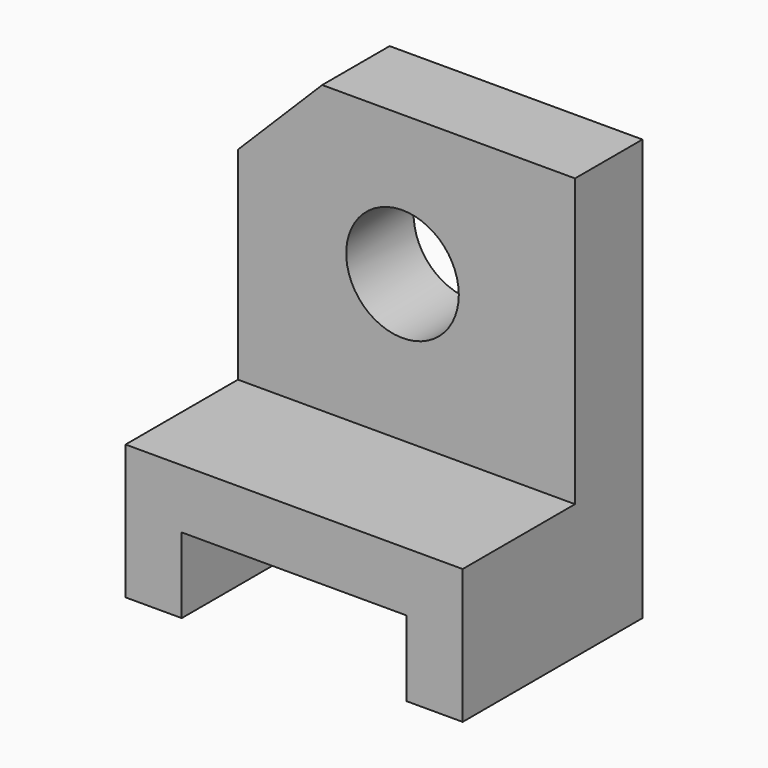
from build123d import *

# Parameters (mm, degrees)
F1_DEPTH = 15
F3_DEPTH = 25
F4_R     = 10.019997
F5_DEPTH = 25


with BuildPart() as f1:
    # F0 (on Front) → F1 (new body)
    with BuildSketch(Plane.XZ):
        Polygon((-21.754347, 39.233197), (-36.754347, 24.233197), (-36.754347, -35.766803), (-26.754347, -35.766803), (-26.754347, -22.329369), (13.245653, -22.329369), (13.245653, -35.766803), (23.245653, -35.766803), (23.245653, 39.233197), align=None)
    extrude(amount=F1_DEPTH)

    # F2 (on face) → F3 (join)
    with BuildSketch(Plane.XZ.offset(15)):
        Polygon((23.245653, -11.812501), (-36.754347, -11.812501), (-36.754347, -35.766803), (-26.754347, -35.766803), (-26.754347, -22.329369), (13.245653, -22.329369), (13.245653, -35.766803), (23.245653, -35.766803), align=None)
    extrude(amount=F3_DEPTH)

    # F4 (on face) → F5 (cut)
    with BuildSketch(Plane.XZ.offset(15)):
        with Locations((-7.458407, 14.252321)):
            Circle(F4_R)
    extrude(amount=-F5_DEPTH, mode=Mode.SUBTRACT)


solid = f1.part
